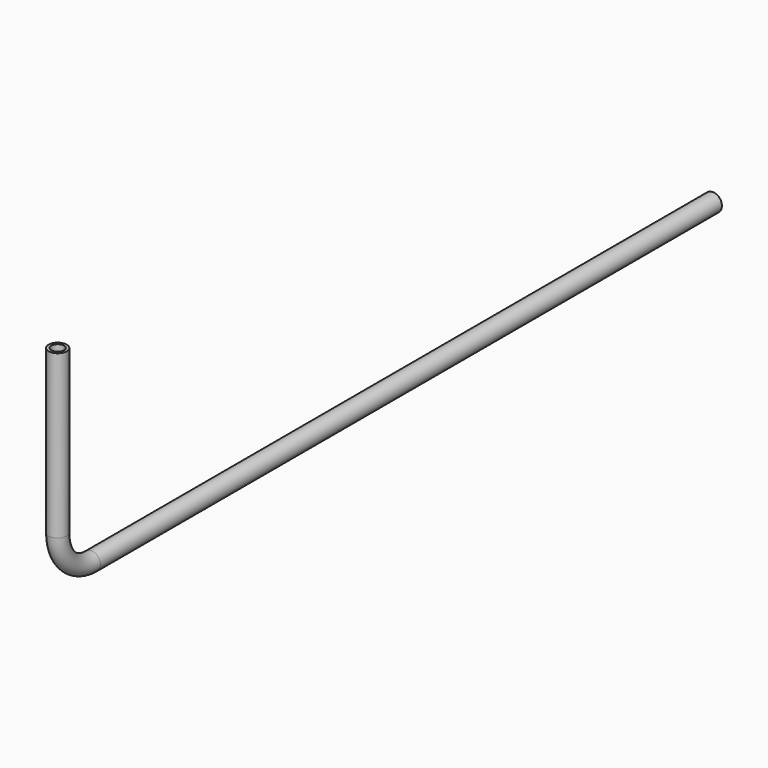
from build123d import *

# Parameters (mm, degrees)
F2_R   = 26.9875
F2_R_2 = 18.8595


with BuildPart() as f3:
    # F3: sweep along a path in F0
    with BuildLine(Plane.YZ) as f3_path:
        Line((2438.4, 0), (125.4125, 0))
        ThreePointArc((125.4125, 0), (36.732471, 36.732471), (0, 125.4125))
        Line((0, 125.4125), (0, 609.6))
    # F2 (on plane+point) → F3 (sweep)
    with BuildSketch(Plane.XZ.offset(-2438.4)):
        Circle(F2_R)
        Circle(F2_R_2, mode=Mode.SUBTRACT)
    sweep(path=f3_path.line)


solid = f3.part
